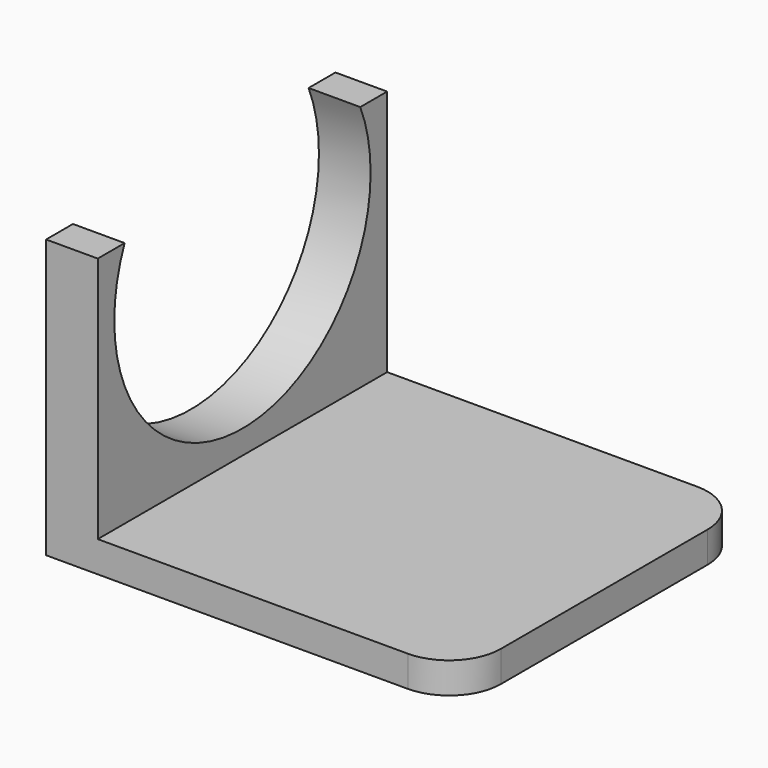
from build123d import *

# Parameters (mm, degrees)
F0_W     = 40
F0_H     = 35
F1_DEPTH = 3
F2_R     = 5
F3_W     = 5
F3_H     = 35
F4_DEPTH = 40
F6_DEPTH = 40.001


with BuildPart() as f1:
    # F0 (on Top) → F1 (new body)
    with BuildSketch(Plane.XY):
        Rectangle(F0_W, F0_H)
    extrude(amount=F1_DEPTH)

    # F2
    f2_edges = [f1.edges().sort_by_distance(p)[0] for p in [
        (20, 17.5, 1.5),
        (20, -17.5, 1.5),
    ]]
    fillet(f2_edges, radius=F2_R)

    # F3 (on face) → F4 (join)
    with BuildSketch(Plane.XY.offset(3)):
        with Locations((-17.5, 0)):
            Rectangle(F3_W, F3_H)
    extrude(amount=F4_DEPTH)

    # F5 (on face) → F6 (cut, through all)
    with BuildSketch(Plane(origin=(-20, 0, 0), x_dir=(0, -1, 0), z_dir=(-1, 0, 0))):
        with BuildLine():
            Line((-17.5, 26.898632), (-14.25, 26.898632))
            ThreePointArc((-14.25, 26.898632), (0, 5.300476), (14.25, 26.898632))
            Line((14.25, 26.898632), (17.5, 26.898632))
            Line((17.5, 26.898632), (17.5, 43))
            Line((17.5, 43), (-17.5, 43))
            Line((-17.5, 43), (-17.5, 26.898632))
        make_face()
    extrude(amount=-F6_DEPTH, mode=Mode.SUBTRACT)


solid = f1.part
